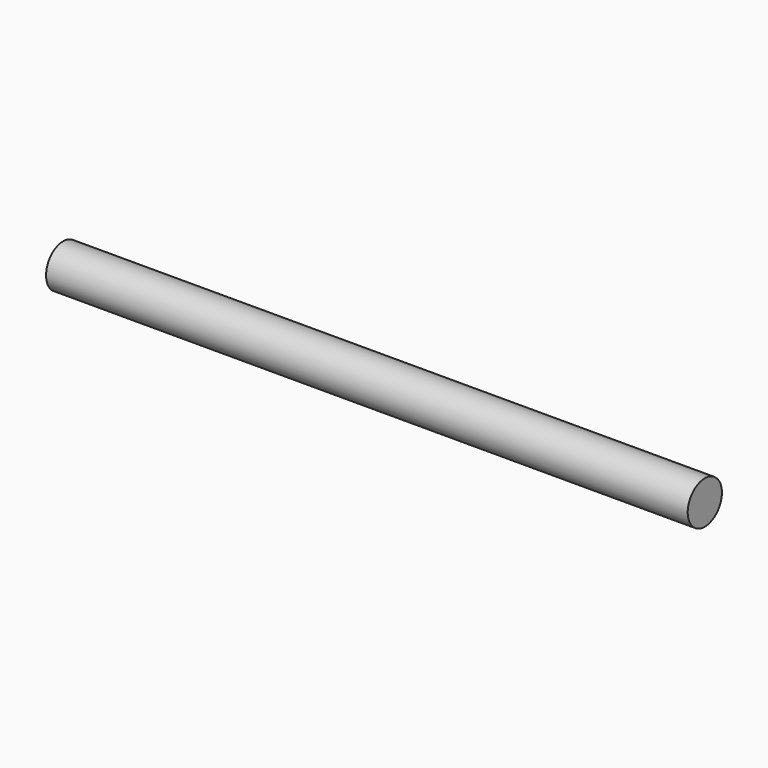
from build123d import *

# Parameters (mm, degrees)
F0_R     = 2.442894711
F1_DEPTH = 58.42
F3_R     = 2.54
F4_DEPTH = 76.2


with BuildPart() as f1:
    # F0 (on Front) → F1 (new body)
    with BuildSketch(Plane.XZ):
        Circle(F0_R)
    extrude(amount=F1_DEPTH)


with BuildPart() as f4:
    # F3 (on Right) → F4 (new body)
    with BuildSketch(Plane.YZ):
        Circle(F3_R)
    extrude(amount=F4_DEPTH)


solid = f4.part
